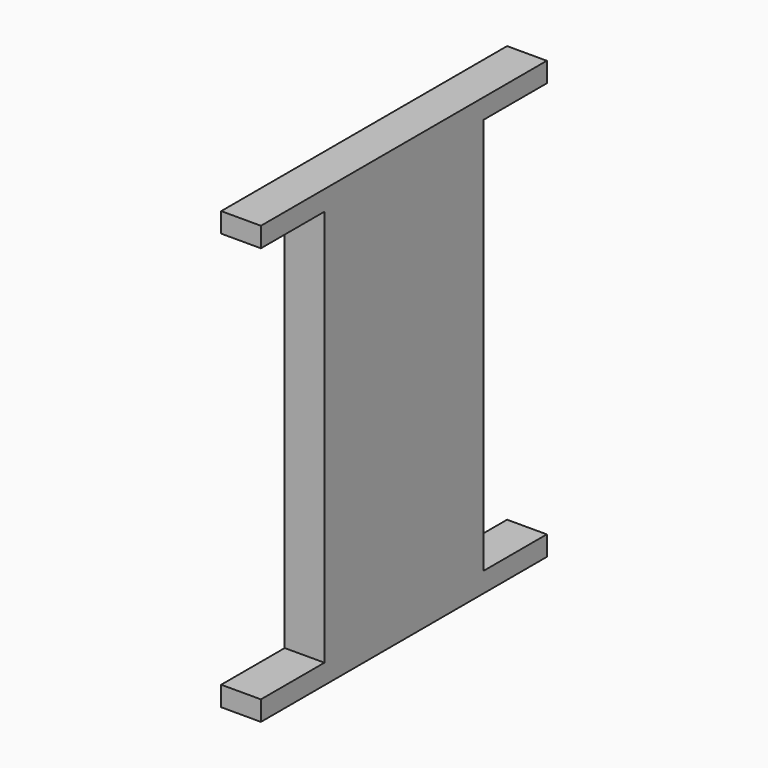
from build123d import *

# Parameters (mm, degrees)
PAD_DEPTH = 5


with BuildPart() as part:
    # Sketch → Pad (new body, symmetric)
    with BuildSketch(Plane.YZ):
        Polygon((-45, 55), (45, 55), (45, 50), (25, 50), (25, -50), (45, -50), (45, -55), (-45, -55), (-45, -50), (-25, -50), (-25, 50), (-45, 50), align=None)
    extrude(amount=PAD_DEPTH, both=True)


solid = part.part
